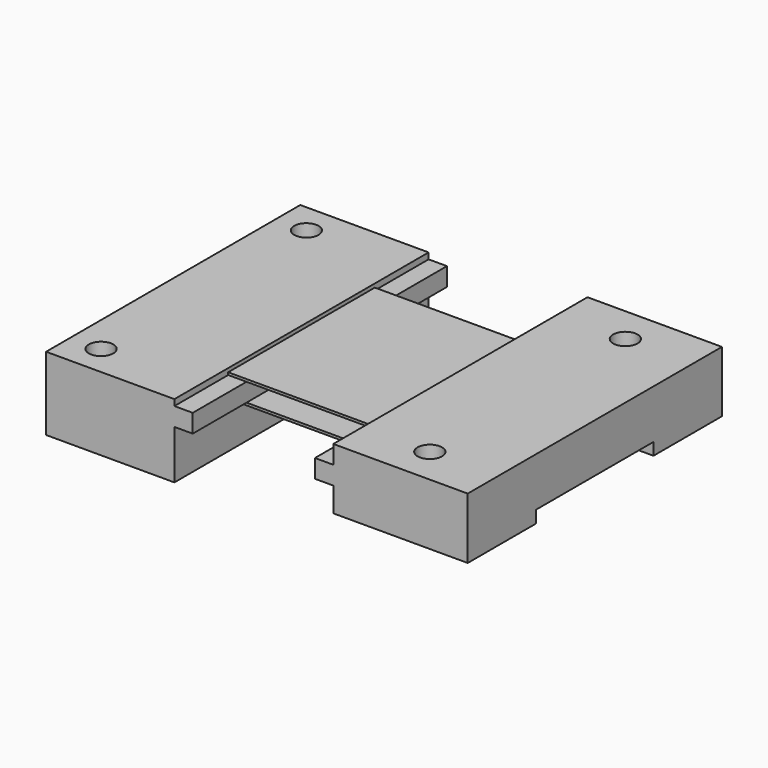
from build123d import *

# Parameters (mm, degrees)
F0_W           = 12.5
F0_H           = 26
F1_DEPTH       = 5
F2_W           = 1.5
F2_H           = 26
F3_DEPTH       = 1.5
F4_W           = 1.5
F4_H           = 26
F5_DEPTH       = 2
F6_W           = 11
F6_H           = 12
F7_DEPTH       = 1
F9_D           = 2
F9_DEPTH       = 10
F9_TIP         = 0.600860619
F10_W          = 13
F10_H          = 15
F11_DEPTH      = 0.2
F12_W          = 12
F12_H          = 26
F13_DEPTH      = 4
F13_DEPTH_BACK = 2
F14_W          = 1.5
F14_H          = 26
F15_DEPTH      = 0.5
F16_W          = 1.5
F16_H          = 26
F17_DEPTH      = 4
F19_D          = 2
F19_DEPTH      = 10
F19_TIP        = 0.600860619
F20_W          = 13
F20_H          = 15
F21_DEPTH      = 0.2


with BuildPart() as f1:
    # F0 (on Top) → F1 (new body)
    with BuildSketch(Plane.XY):
        Rectangle(F0_W, F0_H)
    extrude(amount=F1_DEPTH)

    # F2 (on face) → F3 (cut)
    with BuildSketch(Plane.XY.offset(5)):
        with Locations((-5.5, 0)):
            Rectangle(F2_W, F2_H)
    extrude(amount=-F3_DEPTH, mode=Mode.SUBTRACT)

    # F4 (on face) → F5 (cut)
    with BuildSketch(Plane(origin=(0, 0, 0), x_dir=(1, 0, 0), z_dir=(0, 0, -1))):
        with Locations((-5.5, 0)):
            Rectangle(F4_W, F4_H)
    extrude(amount=-F5_DEPTH, mode=Mode.SUBTRACT)

    # F6 (on face) → F7 (cut)
    with BuildSketch(Plane(origin=(0, 0, 0), x_dir=(1, 0, 0), z_dir=(0, 0, -1))):
        with Locations((0.75, 0)):
            Rectangle(F6_W, F6_H)
    extrude(amount=-F7_DEPTH, mode=Mode.SUBTRACT)

    # F9
    with Locations(Plane.XY.offset(5)):
        with Locations((0.75, 10), (0.75, -10)):
            Hole(F9_D / 2, depth=F9_DEPTH)
            with Locations((0, 0, -(F9_DEPTH + F9_TIP / 2))):  # 118° drill point
                Cone(0, F9_D / 2, F9_TIP, mode=Mode.SUBTRACT)


with BuildPart() as f11:
    # F10 (on face) → F11 (new body)
    with BuildSketch(Plane.XY.offset(3.5)):
        with Locations((-11.25, 0)):
            Rectangle(F10_W, F10_H)
    extrude(amount=F11_DEPTH)


with BuildPart() as f13:
    # F12 (on Top) → F13 (new body, two sides)
    with BuildSketch(Plane.XY) as f13_sk:
        with Locations((-22.25, 0)):
            Rectangle(F12_W, F12_H)
    extrude(amount=F13_DEPTH)
    extrude(f13_sk.sketch, amount=-F13_DEPTH_BACK)

    # F14 (on face) → F15 (cut)
    with BuildSketch(Plane.XY.offset(4)):
        with Locations((-17, 0)):
            Rectangle(F14_W, F14_H)
    extrude(amount=-F15_DEPTH, mode=Mode.SUBTRACT)

    # F16 (on face) → F17 (cut)
    with BuildSketch(Plane(origin=(0, 0, -2), x_dir=(1, 0, 0), z_dir=(0, 0, -1))):
        with Locations((-17, 0)):
            Rectangle(F16_W, F16_H)
    extrude(amount=-F17_DEPTH, mode=Mode.SUBTRACT)

    # F19
    with Locations(Plane.XY.offset(4)):
        with Locations((-25.75, 10.5), (-25.75, -10.5)):
            Hole(F19_D / 2, depth=F19_DEPTH)
            with Locations((0, 0, -(F19_DEPTH + F19_TIP / 2))):  # 118° drill point
                Cone(0, F19_D / 2, F19_TIP, mode=Mode.SUBTRACT)


with BuildPart() as f21:
    # F20 (on face) → F21 (new body)
    with BuildSketch(Plane(origin=(0, 0, 2), x_dir=(1, 0, 0), z_dir=(0, 0, -1))):
        with Locations((-11.25, 0)):
            Rectangle(F20_W, F20_H)
    extrude(amount=F21_DEPTH)


solid = Compound([f1.part, f11.part, f13.part, f21.part])
